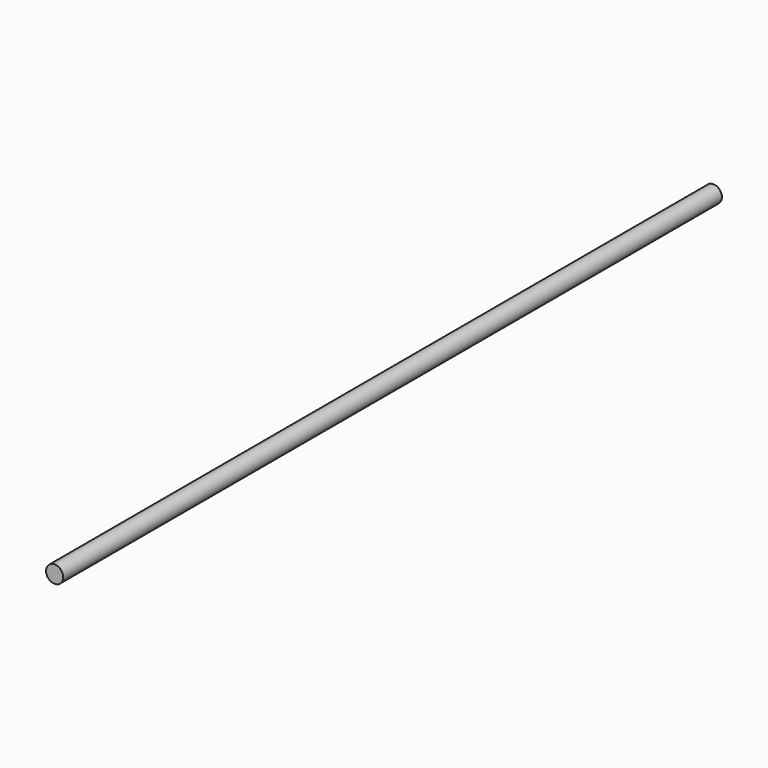
from build123d import *

# Parameters (mm, degrees)
F0_R     = 0.79375
F1_DEPTH = 76.2
F2_DEPTH = 25.4


with BuildPart() as f1:
    # F0 (on Front) → F1 (new body)
    with BuildSketch(Plane.XZ):
        Circle(F0_R)
    extrude(amount=F1_DEPTH)

    # F0 (on Front) → F2 (join)
    with BuildSketch(Plane.XZ):
        Circle(F0_R)
    extrude(amount=F2_DEPTH)


solid = f1.part
